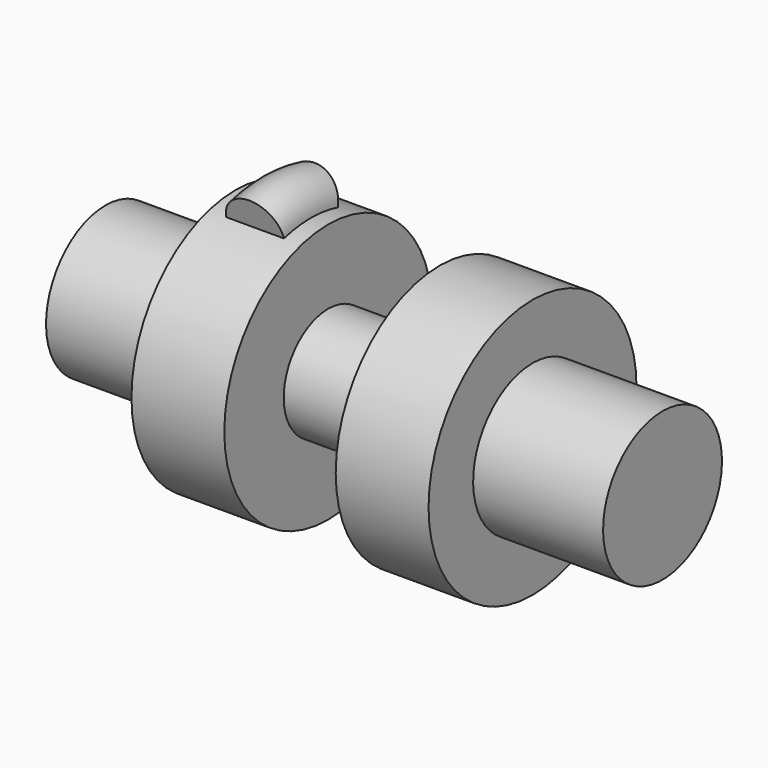
from build123d import *

# Parameters (mm, degrees)
F2_R     = 7.769251
F3_ANGLE = 30


with BuildPart() as f1:
    # F0 (on Front) → F1 (revolve)
    with BuildSketch(Plane.XZ):
        Polygon((0, 20), (0, 0), (150, 0), (150, 20), (115, 20), (115, 35), (90, 35), (90, 15), (60, 15), (60, 35), (35, 35), (35, 20), align=None)
    revolve(axis=Axis((75, 0, 0), (1, 0, 0)))

    # F2 (on Front) → F3 (revolve, symmetric)
    with BuildSketch(Plane.XZ) as f3_sk:
        with Locations((47.538679, 34.739796)):
            Circle(F2_R)
    revolve(axis=Axis((82.887948, 0, 0), (1, 0, 0)), revolution_arc=F3_ANGLE / 2)
    revolve(f3_sk.sketch, axis=Axis((82.887948, 0, 0), (-1, 0, 0)), revolution_arc=F3_ANGLE / 2)


solid = f1.part
